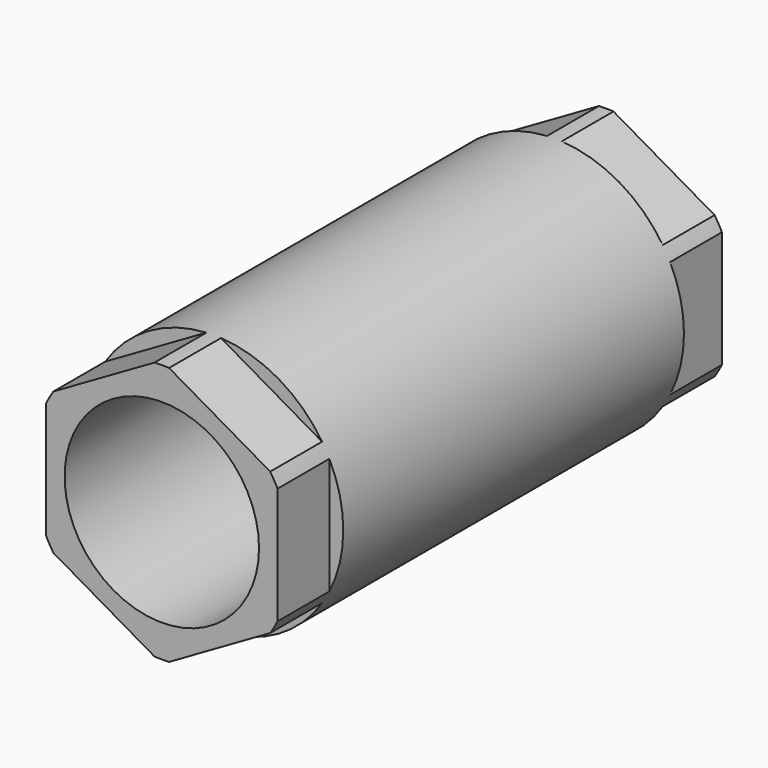
from build123d import *

# Parameters (mm, degrees)
CYLINDER_R          = 17.78
CYLINDER_DEPTH      = 76.2
CYLINDER_ROLL_ANGLE = 90
SKETCH_R            = 13.335
POCKET_DEPTH        = 76.2
SKETCH001_R         = 19.05
POCKET001_DEPTH     = 8.89
SKETCH002_R         = 19.05
POCKET002_DEPTH     = 8.89


with BuildPart() as part:
    # Cylinder → Cylinder (new body)
    with BuildSketch(Plane.XY):
        Circle(CYLINDER_R)
    extrude(amount=CYLINDER_DEPTH)


with BuildPart() as part_1:
    # Cylinder roll: moved
    add(part.part.rotate(Axis((0, 0, 0), (1, 0, 0)), CYLINDER_ROLL_ANGLE))


with BuildPart() as part_2:
    # Cylinder placement: moved
    add(part_1.part)

    # Sketch → Pocket (cut)
    with BuildSketch(Plane(origin=(0, 0, 0), x_dir=(1, 0, 0), z_dir=(0, 1, 0))):
        Circle(SKETCH_R)
    extrude(amount=-POCKET_DEPTH, mode=Mode.SUBTRACT)

    # Sketch001 → Pocket001 (cut)
    with BuildSketch(Plane(origin=(0, 0, 0), x_dir=(1, 0, 0), z_dir=(0, 1, 0))):
        Circle(SKETCH001_R)
        Polygon((-15.875, -9.165436), (-15.875, 9.165436), (0, 18.330871), (15.875, 9.165436), (15.875, -9.165436), (0, -18.330871), align=None, mode=Mode.SUBTRACT)
    extrude(amount=-POCKET001_DEPTH, mode=Mode.SUBTRACT)

    # Sketch002 → Pocket002 (cut)
    with BuildSketch(Plane.XZ.offset(76.2)):
        Circle(SKETCH002_R)
        Polygon((-15.875, -9.165436), (-15.875, 9.165436), (0, 18.330871), (15.875, 9.165436), (15.875, -9.165436), (0, -18.330871), align=None, mode=Mode.SUBTRACT)
    extrude(amount=-POCKET002_DEPTH, mode=Mode.SUBTRACT)


solid = part_2.part
